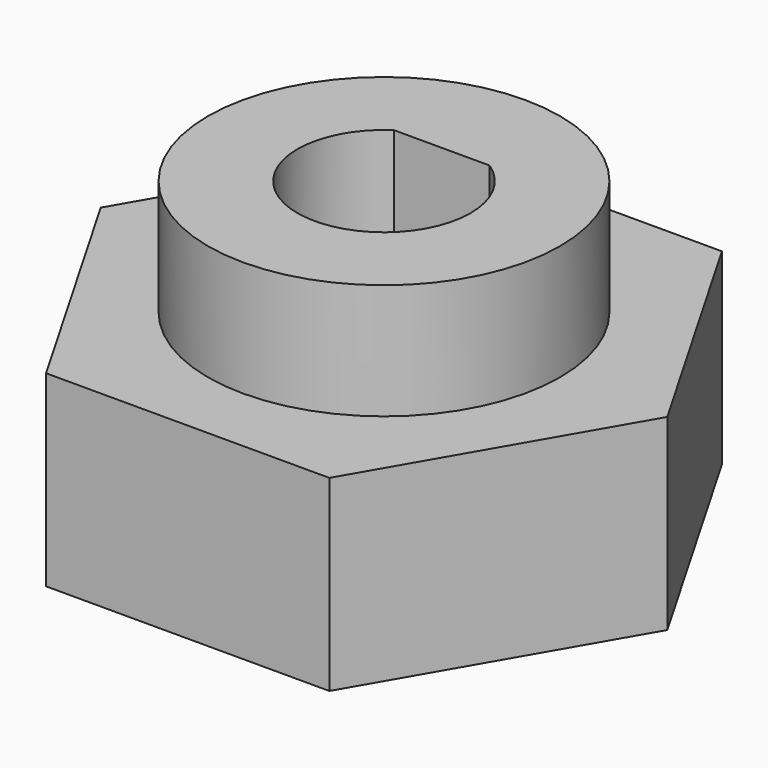
from build123d import *

# Parameters (mm, degrees)
SKETCH_R        = 3
PAD_DEPTH       = 6.5
SKETCH001_R     = 6.1
SKETCH001_R_2   = 3
PAD001_DEPTH    = 10
PAD002_DEPTH    = 13
SKETCH003_R     = 6.1
POCKET_DEPTH    = 6
POCKET001_DEPTH = 6.5
SKETCH005_R     = 2.1
POCKET002_DEPTH = 4.201


with BuildPart() as part:
    # Sketch → Pad (new body)
    with BuildSketch(Plane.XY):
        Polygon((9.814955, 0), (4.907477, 8.5), (-4.907477, 8.5), (-9.814955, 0), (-4.907477, -8.5), (4.907477, -8.5), align=None)
        Circle(SKETCH_R, mode=Mode.SUBTRACT)
    extrude(amount=PAD_DEPTH)

    # Sketch001 (on Face9 of Pad) → Pad001 (join)
    with BuildSketch(Plane.XY.offset(6.5)):
        Circle(SKETCH001_R)
        Circle(SKETCH001_R_2, mode=Mode.SUBTRACT)
    extrude(amount=PAD001_DEPTH)

    # Sketch002 (on Face12 of Pad001) → Pad002 (join)
    with BuildSketch(Plane.XY.offset(16.5)):
        with BuildLine():
            Line((-1.658312, 2.5), (1.658312, 2.5))
            ThreePointArc((1.658312, 2.5), (0, 3), (-1.658312, 2.5))
        make_face()
    extrude(amount=-PAD002_DEPTH)

    # Sketch003 (on Face15 of Pad002) → Pocket (cut)
    with BuildSketch(Plane.XY.offset(16.5)):
        Circle(SKETCH003_R)
    extrude(amount=-POCKET_DEPTH, mode=Mode.SUBTRACT)

    # Sketch004 (on Face4 of Pocket) → Pocket001 (cut)
    with BuildSketch(Plane(origin=(0, 0, 0), x_dir=(1, 0, 0), z_dir=(0, 0, -1))):
        with BuildLine():
            ThreePointArc((2.5, -2.727636), (0, 3.7), (-2.5, -2.727636))
            Line((-2.5, -4.3), (-2.5, -2.727636))
            Line((2.5, -4.3), (-2.5, -4.3))
            Line((2.5, -4.3), (2.5, -2.727636))
        make_face()
    extrude(amount=-POCKET001_DEPTH, mode=Mode.SUBTRACT)

    # Sketch005 (on Face9 of Pocket001) → Pocket002 (cut, through all)
    with BuildSketch(Plane.XZ.offset(-4.3)):
        with Locations((0, 3.4)):
            Circle(SKETCH005_R)
    extrude(amount=-POCKET002_DEPTH, mode=Mode.SUBTRACT)


solid = part.part
